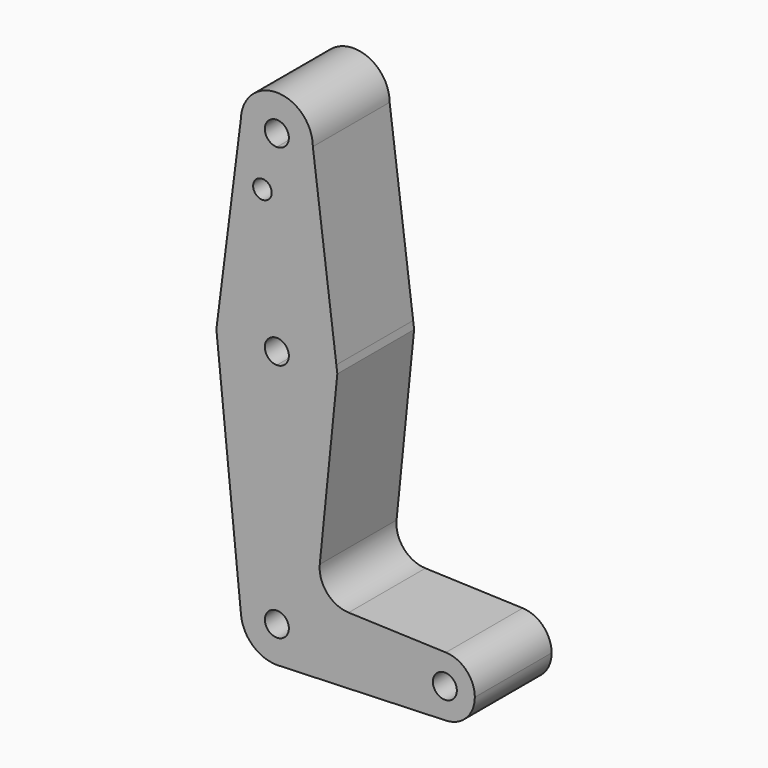
from build123d import *

# Parameters (mm, degrees)
F0_R     = 2.4534575641
F1_DEPTH = 25.4


with BuildPart() as f1:
    # F0 (on Front) → F1 (new body)
    with BuildSketch(Plane.XZ):
        with BuildLine():
            ThreePointArc((-9.5217293486, 51.0495900878), (-6.822864889, 44.1536371069), (0, 41.275))
            ThreePointArc((0, 41.275), (6.7351920908, 44.0648079092), (9.525, 50.8))
            ThreePointArc((9.525, 50.8), (0.1248057582, 60.3241823021), (-9.5217293486, 51.0495900878))
        make_face()
        with BuildLine():
            ThreePointArc((3.175, 50.8), (2.2450640303, 48.5549359697), (0, 47.625))
            ThreePointArc((0, 47.625), (-2.2450640303, 53.0450640303), (3.175, 50.8))
        make_face(mode=Mode.SUBTRACT)
        with BuildLine():
            ThreePointArc((9.525, 50.8), (6.7351920908, 44.0648079092), (0, 41.275))
            Line((0, 41.275), (0, 15.875))
            ThreePointArc((0, 15.875), (10.4912828764, 11.9142187578), (15.747456912, 2.0082892734))
            Line((15.747456912, 2.0082892734), (9.525, 50.8))
        make_face()
        with BuildLine():
            Line((0, 15.875), (0, 41.275))
            ThreePointArc((0, 41.275), (-6.822864889, 44.1536371069), (-9.5217293486, 51.0495900878))
            Line((-9.5217293486, 51.0495900878), (-15.74860511, 1.9992653877))
            ThreePointArc((-15.74860511, 1.9992653877), (-10.4946959692, 11.9112124284), (0, 15.875))
        make_face()
        with Locations((-3.8164881989, 36.5252)):
            Circle(F0_R, mode=Mode.SUBTRACT)
        with BuildLine():
            ThreePointArc((15.747456912, 2.0082892734), (10.4912828764, 11.9142187578), (0, 15.875))
            Line((0, 15.875), (0, 3.175))
            ThreePointArc((0, 3.175), (2.2450640303, 2.2450640303), (3.175, 0))
            ThreePointArc((3.175, 0), (2.2450640303, -2.2450640303), (0, -3.175))
            Line((0, -3.175), (0, -15.875))
            ThreePointArc((0, -15.875), (11.2253201513, -11.2253201513), (15.875, 0))
            ThreePointArc((15.875, 0), (15.8430821414, 1.0061676109), (15.747456912, 2.0082892734))
        make_face()
        with BuildLine():
            Line((0, 3.175), (0, 15.875))
            ThreePointArc((0, 15.875), (-10.4946959692, 11.9112124284), (-15.74860511, 1.9992653877))
            ThreePointArc((-15.74860511, 1.9992653877), (-11.9112124284, -10.4946959692), (0, -15.875))
            Line((0, -15.875), (0, -3.175))
            ThreePointArc((0, -3.175), (-3.175, 0), (0, 3.175))
        make_face()
        with BuildLine():
            Line((16.0035761028, 0), (15.747456912, 2.0082892734))
            ThreePointArc((15.747456912, 2.0082892734), (15.8430821414, 1.0061676109), (15.875, 0))
            ThreePointArc((15.875, 0), (11.2253201513, -11.2253201513), (0, -15.875))
            Line((0, -15.875), (0, -53.975))
            ThreePointArc((0, -53.975), (6.7351920908, -56.7648079092), (9.525, -63.5))
            Line((9.525, -63.5), (36.5125, -63.5))
            ThreePointArc((36.5125, -63.5), (38.9380895153, -57.7883672161), (44.7324052746, -55.5675253854))
            Line((44.7324052746, -55.5675253854), (18.9822637558, -54.6507905531))
            ThreePointArc((18.9822637558, -54.6507905531), (13.2731893708, -51.9307973584), (11.3553673773, -45.9046997726))
            Line((11.3553673773, -45.9046997726), (16.0035761028, 0))
        make_face()
        with BuildLine():
            ThreePointArc((0, -15.875), (-11.9112124284, -10.4946959692), (-15.74860511, 1.9992653877))
            Line((-15.74860511, 1.9992653877), (-16.0024092847, 0))
            Line((-16.0024092847, 0), (-9.4765589271, -64.4594039301))
            ThreePointArc((-9.4765589271, -64.4594039301), (-7.0662559901, -57.1130092154), (0, -53.975))
            Line((0, -53.975), (0, -15.875))
        make_face()
        with BuildLine():
            Line((0, -60.325), (0, -53.975))
            ThreePointArc((0, -53.975), (-7.0662559901, -57.1130092154), (-9.4765589271, -64.4594039301))
            ThreePointArc((-9.4765589271, -64.4594039301), (-6.3869907846, -70.5662559901), (0, -73.025))
            Line((0, -73.025), (0.6773435479, -73.000885786))
            ThreePointArc((0.6773435479, -73.000885786), (6.9705567315, -69.9912990883), (9.525, -63.5))
            Line((9.525, -63.5), (3.175, -63.5))
            ThreePointArc((3.175, -63.5), (-2.2450640303, -65.7450640303), (0, -60.325))
        make_face()
        with BuildLine():
            Line((36.5125, -63.5), (9.525, -63.5))
            ThreePointArc((9.525, -63.5), (6.9705567315, -69.9912990883), (0.6773435479, -73.000885786))
            Line((0.6773435479, -73.000885786), (44.7324052746, -71.4324746146))
            ThreePointArc((44.7324052746, -71.4324746146), (38.9380895153, -69.2116327839), (36.5125, -63.5))
        make_face()
        with BuildLine():
            Line((0.6773435479, -73.000885786), (0, -73.025))
            ThreePointArc((0, -73.025), (0.3388863295, -73.0189695375), (0.6773435479, -73.000885786))
        make_face()
        with BuildLine():
            ThreePointArc((52.3875, -63.5), (50.1616327839, -57.9880895153), (44.7324052746, -55.5675253854))
            ThreePointArc((44.7324052746, -55.5675253854), (38.9380895153, -57.7883672161), (36.5125, -63.5))
            ThreePointArc((36.5125, -63.5), (38.9380895153, -69.2116327839), (44.7324052746, -71.4324746146))
            ThreePointArc((44.7324052746, -71.4324746146), (50.1616327839, -69.0119104847), (52.3875, -63.5))
        make_face()
        with BuildLine():
            ThreePointArc((47.625, -63.5), (44.45, -66.675), (41.275, -63.5))
            ThreePointArc((41.275, -63.5), (44.45, -60.325), (47.625, -63.5))
        make_face(mode=Mode.SUBTRACT)
        with BuildLine():
            ThreePointArc((9.525, -63.5), (6.7351920908, -56.7648079092), (0, -53.975))
            Line((0, -53.975), (0, -60.325))
            ThreePointArc((0, -60.325), (2.2450640303, -61.2549359697), (3.175, -63.5))
            Line((3.175, -63.5), (9.525, -63.5))
        make_face()
    extrude(amount=F1_DEPTH)


solid = f1.part
